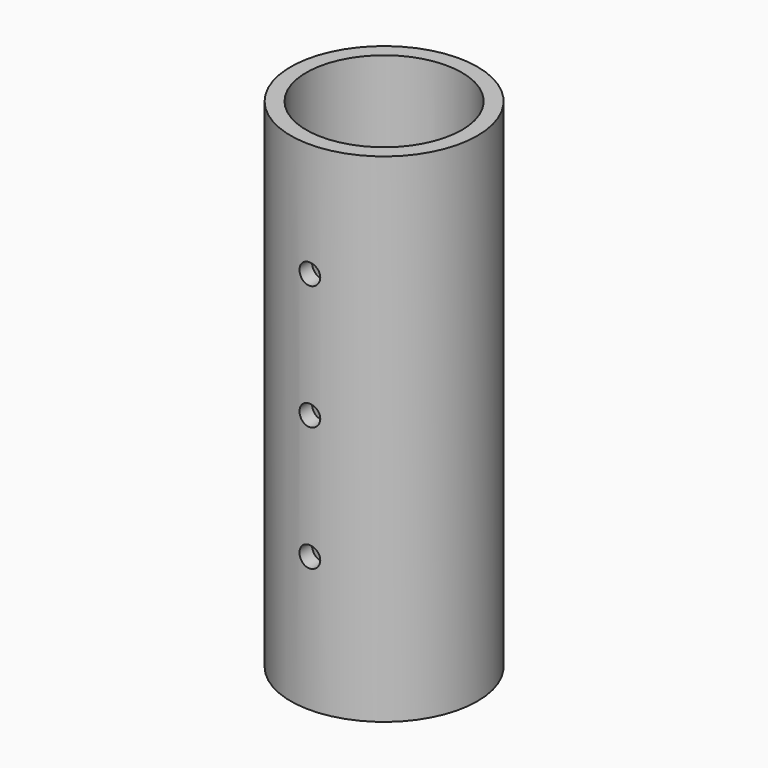
from build123d import *

# Parameters (mm, degrees)
F0_R     = 57.15
F0_R_2   = 47.625
F1_DEPTH = 304.8
F2_R     = 6.35
F3_DEPTH = 57.151
F4_DEPTH = 57.151


with BuildPart() as f1:
    # F0 (on Top) → F1 (new body)
    with BuildSketch(Plane.XY):
        Circle(F0_R)
        Circle(F0_R_2, mode=Mode.SUBTRACT)
    extrude(amount=F1_DEPTH)

    # F2 (on Front) → F3 (cut, through all)
    with BuildSketch(Plane.XZ):
        with Locations((0, 82.55)):
            Circle(F2_R)
        with Locations((0, 158.75)):
            Circle(F2_R)
        with Locations((0, 234.95)):
            Circle(F2_R)
    extrude(amount=-F3_DEPTH, mode=Mode.SUBTRACT)

    # F2 (on Front) → F4 (cut, through all)
    with BuildSketch(Plane.XZ):
        with Locations((0, 82.55)):
            Circle(F2_R)
        with Locations((0, 158.75)):
            Circle(F2_R)
        with Locations((0, 234.95)):
            Circle(F2_R)
    extrude(amount=F4_DEPTH, mode=Mode.SUBTRACT)


solid = f1.part
